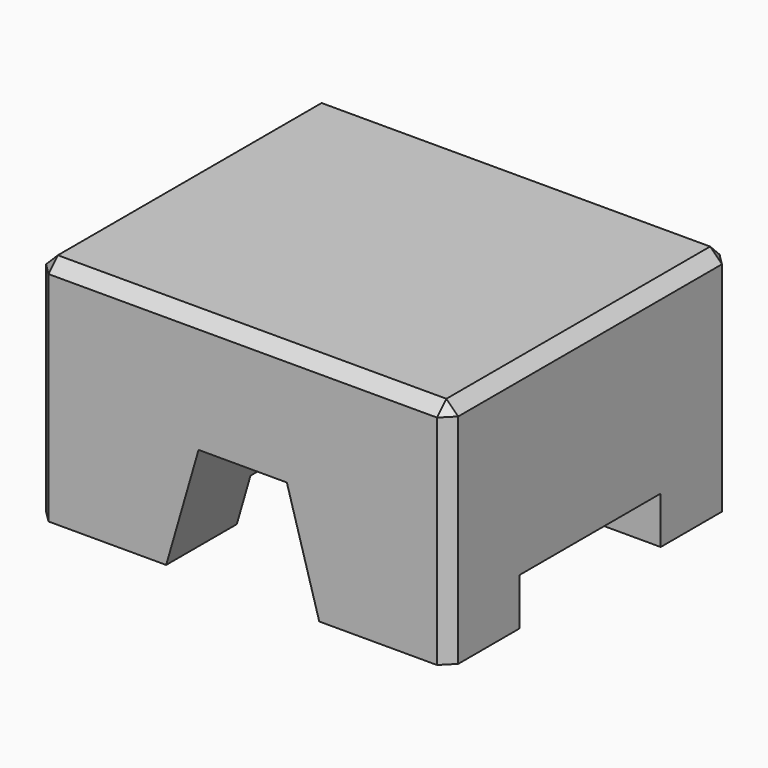
from build123d import *

# Parameters (mm, degrees)
F1_DEPTH = 600
F2_W     = 760
F2_H     = 300
F3_DEPTH = 80
F4_W     = 150
F4_H     = 440
F5_DEPTH = 20
F6_SIZE  = 20
F7_R     = 15


with BuildPart() as f1:
    # F0 (on Front) → F1 (new body)
    with BuildSketch(Plane.XZ):
        Polygon((-220, 0), (0, 0), (0, 390), (-700, 390), (-700, 0), (-480, 0), (-425, 190), (-275, 190), align=None)
    extrude(amount=F1_DEPTH)

    # F2 (on face) → F3 (cut)
    with BuildSketch(Plane(origin=(0, 0, 0), x_dir=(1, 0, 0), z_dir=(0, 0, -1))):
        with Locations((-350, 300)):
            Rectangle(F2_W, F2_H)
    extrude(amount=-F3_DEPTH, mode=Mode.SUBTRACT)

    # F4 (on face) → F5 (cut)
    with BuildSketch(Plane(origin=(0, 0, 190), x_dir=(1, 0, 0), z_dir=(0, 0, -1))):
        with Locations((-350, 300)):
            Rectangle(F4_W, F4_H)
    extrude(amount=-F5_DEPTH, mode=Mode.SUBTRACT)

    # F6
    f6_edges = [f1.edges().sort_by_distance(p)[0] for p in [
        (-700, 0, 195),
        (-700, -300, 390),
        (-350, 0, 390),
        (0, -300, 390),
        (-350, -600, 390),
        (-700, -600, 195),
        (0, -600, 195),
        (0, 0, 195),
    ]]
    chamfer(f6_edges, length=F6_SIZE)

    # F7
    f7_edges = [f1.edges().sort_by_distance(p)[0] for p in [
        (-275, -520, 200),
        (-425, -520, 200),
        (-425, -80, 200),
        (-275, -80, 200),
    ]]
    fillet(f7_edges, radius=F7_R)


solid = f1.part
